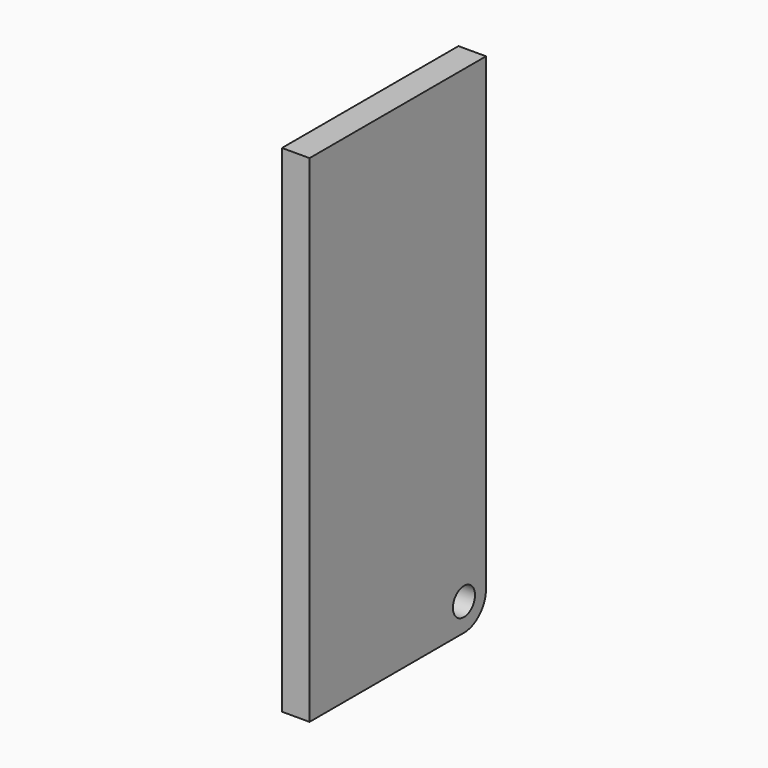
from build123d import *

# Parameters (mm, degrees)
F0_R     = 6.35
F1_DEPTH = 6.35


with BuildPart() as f1:
    # F0 (on Right) → F1 (new body, symmetric)
    with BuildSketch(Plane.YZ):
        with BuildLine():
            Line((-88.9, -12.7), (0, -12.7))
            ThreePointArc((0, -12.7), (8.980256, -8.980256), (12.7, 0))
            Line((12.7, 0), (12.7, 215.9))
            Line((12.7, 215.9), (-88.9, 215.9))
            Line((-88.9, 215.9), (-88.9, -12.7))
        make_face()
        Circle(F0_R, mode=Mode.SUBTRACT)
    extrude(amount=F1_DEPTH, both=True)


solid = f1.part
